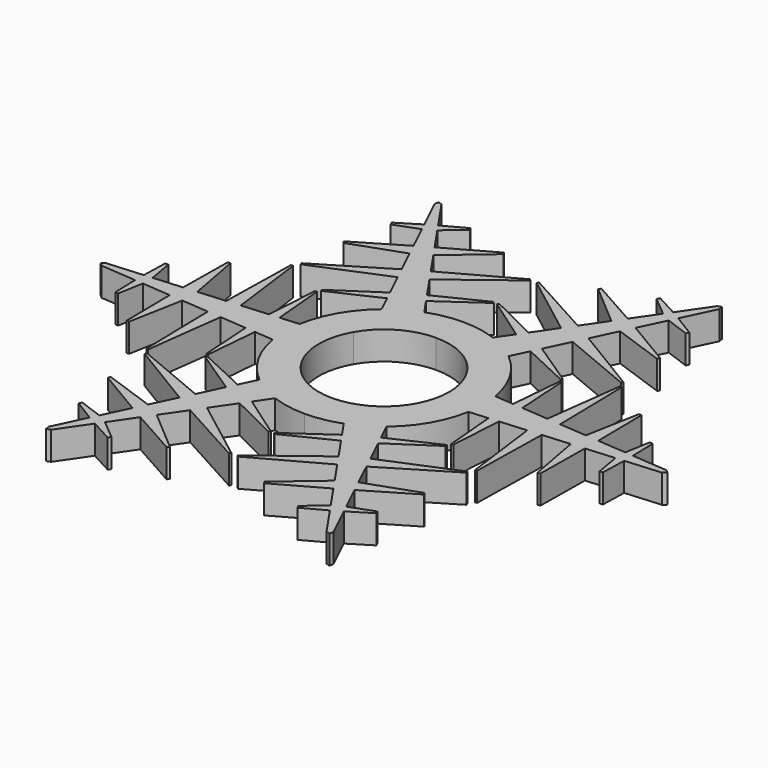
from build123d import *

# Parameters (mm, degrees)
PAD_DEPTH            = 10
PAD_MIRRORED_2_DEPTH = 10
POLARPATTERN_COUNT   = 6


with BuildPart() as part:
    # Sketch → Pad (new body)
    with BuildSketch(Plane.XY):
        with BuildLine():
            Line((34.539974, 5.951971), (41.223216, 5.433523))
            Line((41.223216, 5.433523), (42.855521, 24.084948))
            Line((42.855521, 24.084948), (43.536466, 23.847499))
            Line((43.536466, 23.847499), (44.720232, 5.162245))
            Line((44.720232, 5.162245), (54.112267, 4.433664))
            Line((54.112267, 4.433664), (57.662418, 32.010035))
            Line((57.662418, 32.010035), (58.381513, 31.858424))
            Line((58.381513, 31.858424), (58.930514, 4.059892))
            Line((58.930514, 4.059892), (68.573963, 3.311808))
            Line((68.573963, 3.311808), (72.096764, 22.342189))
            Line((72.096764, 22.342189), (73.036041, 22.299744))
            Line((73.036041, 22.299744), (73.270602, 2.94747))
            Line((73.270602, 2.94747), (83.421057, 2.160055))
            Line((83.421057, 2.160055), (84.966732, 11.060634))
            Line((84.966732, 11.060634), (86.077622, 10.964638))
            Line((86.077622, 10.964638), (86.330231, 1.934378))
            Line((86.330231, 1.934378), (98.922694, 0.957527))
            Line((98.922694, 0.957527), (100, 0))
            Line((100, 0), (23, 0))
            ThreePointArc((23, 0), (16.263456, 16.263456), (0, 23))
            Line((0, 23), (0, 35.049048))
            ThreePointArc((34.539974, 5.951971), (22.58124, 26.805286), (0, 35.049048))
        make_face()
    pad = extrude(amount=PAD_DEPTH)

    # Sketch Mirrored 2 → Pad Mirrored 2 (add)
    with BuildSketch(Plane(origin=(0, 0, 0), x_dir=(1, 0, 0), z_dir=(0, 0, -1))):
        with BuildLine():
            Line((34.539974, 5.951971), (41.223216, 5.433523))
            Line((41.223216, 5.433523), (42.855521, 24.084948))
            Line((42.855521, 24.084948), (43.536466, 23.847499))
            Line((43.536466, 23.847499), (44.720232, 5.162245))
            Line((44.720232, 5.162245), (54.112267, 4.433664))
            Line((54.112267, 4.433664), (57.662418, 32.010035))
            Line((57.662418, 32.010035), (58.381513, 31.858424))
            Line((58.381513, 31.858424), (58.930514, 4.059892))
            Line((58.930514, 4.059892), (68.573963, 3.311808))
            Line((68.573963, 3.311808), (72.096764, 22.342189))
            Line((72.096764, 22.342189), (73.036041, 22.299744))
            Line((73.036041, 22.299744), (73.270602, 2.94747))
            Line((73.270602, 2.94747), (83.421057, 2.160055))
            Line((83.421057, 2.160055), (84.966732, 11.060634))
            Line((84.966732, 11.060634), (86.077622, 10.964638))
            Line((86.077622, 10.964638), (86.330231, 1.934378))
            Line((86.330231, 1.934378), (98.922694, 0.957527))
            Line((98.922694, 0.957527), (100, 0))
            Line((100, 0), (23, 0))
            ThreePointArc((23, 0), (16.263456, 16.263456), (0, 23))
            Line((0, 23), (0, 35.049048))
            ThreePointArc((34.539974, 5.951971), (22.58124, 26.805286), (0, 35.049048))
        make_face()
    pad_mirrored_2 = extrude(amount=-PAD_MIRRORED_2_DEPTH)

    # PolarPattern: Pad, Pad Mirrored 2 ×6 about axis
    polarpattern_axis = Axis((0, 0, 0), (0, 0, 1))
    for i in range(1, POLARPATTERN_COUNT):
        add(pad.rotate(polarpattern_axis, i * 360 / POLARPATTERN_COUNT))
        add(pad_mirrored_2.rotate(polarpattern_axis, i * 360 / POLARPATTERN_COUNT))


solid = part.part
